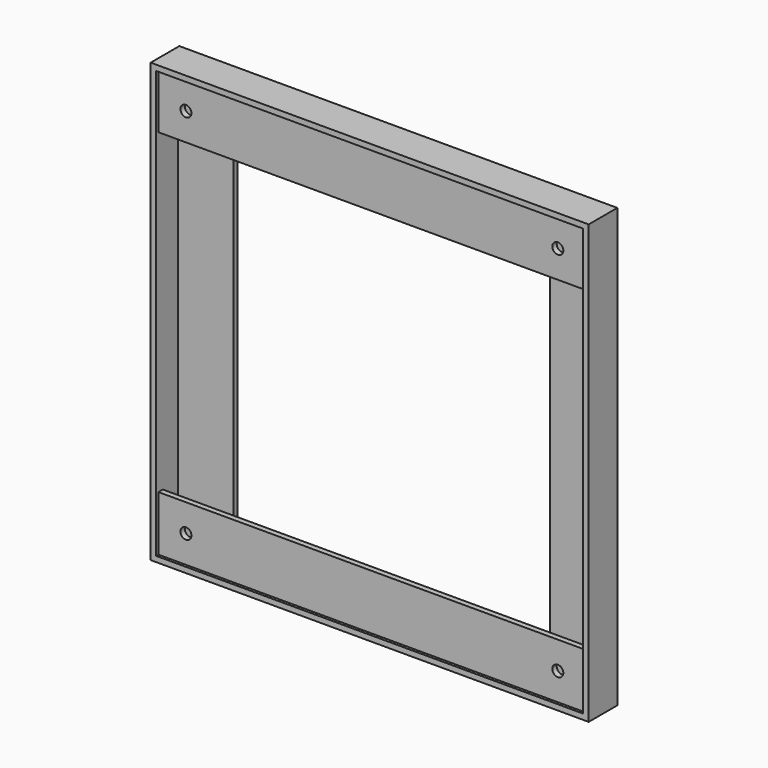
from build123d import *

# Parameters (mm, degrees)
F0_W     = 159
F0_H     = 159
F0_W_2   = 155
F0_H_2   = 155
F1_DEPTH = 13
F3_W     = 20
F3_H     = 155
F3_R     = 2
F4_DEPTH = 2
F6_W     = 155
F6_H     = 20
F6_R     = 2
F7_DEPTH = 2


with BuildPart() as f1:
    # F0 (on Front) → F1 (new body)
    with BuildSketch(Plane.XZ):
        with Locations((77.5, 77.5)):
            Rectangle(F0_W, F0_H)
        with Locations((77.5, 77.5)):
            Rectangle(F0_W_2, F0_H_2, mode=Mode.SUBTRACT)
    extrude(amount=F1_DEPTH)


with BuildPart() as f4:
    # F3 (on offset) → F4 (new body)
    with BuildSketch(Plane.XZ.offset(1)):
        with Locations((10, 77.5)):
            Rectangle(F3_W, F3_H)
        with Locations((10, 10)):
            Circle(F3_R, mode=Mode.SUBTRACT)
        with Locations((10, 145)):
            Circle(F3_R, mode=Mode.SUBTRACT)
    extrude(amount=F4_DEPTH)


with BuildPart() as f4b:
    # F3 (on offset) → F4, piece 2 (new body)
    with BuildSketch(Plane.XZ.offset(1)):
        with Locations((145, 77.5)):
            Rectangle(F3_W, F3_H)
        with Locations((145, 10)):
            Circle(F3_R, mode=Mode.SUBTRACT)
        with Locations((145, 145)):
            Circle(F3_R, mode=Mode.SUBTRACT)
    extrude(amount=F4_DEPTH)


with BuildPart() as f7:
    # F6 (on offset) → F7 (new body)
    with BuildSketch(Plane.XZ.offset(12)):
        with Locations((77.5, 145)):
            Rectangle(F6_W, F6_H)
        with Locations((10, 145)):
            Circle(F6_R, mode=Mode.SUBTRACT)
        with Locations((145, 145)):
            Circle(F6_R, mode=Mode.SUBTRACT)
    extrude(amount=-F7_DEPTH)


with BuildPart() as f7b:
    # F6 (on offset) → F7, piece 2 (new body)
    with BuildSketch(Plane.XZ.offset(12)):
        with Locations((77.5, 10)):
            Rectangle(F6_W, F6_H)
        with Locations((10, 10)):
            Circle(F6_R, mode=Mode.SUBTRACT)
        with Locations((145, 10)):
            Circle(F6_R, mode=Mode.SUBTRACT)
    extrude(amount=-F7_DEPTH)


solid = Compound([f1.part, f4.part, f4b.part, f7.part, f7b.part])
